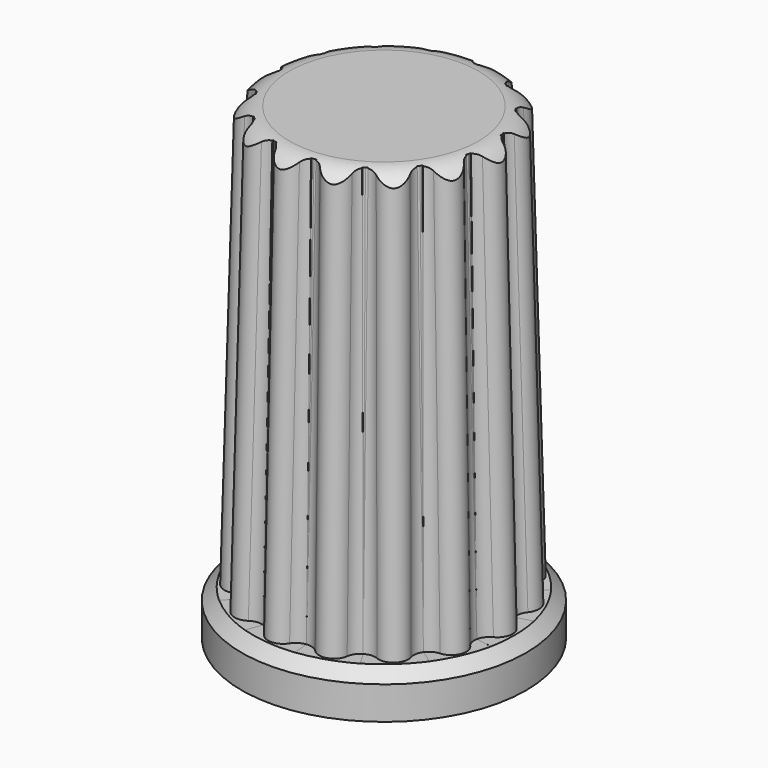
from build123d import *

# Parameters (mm, degrees)
SKETCH005_W    = 6.4
SKETCH005_H    = 9
PAD_DEPTH      = 0.45
PAD_DEPTH_BACK = 0.45
PAD002_DEPTH   = 0.5
PAD001_DEPTH   = 20
ARRAY001_COUNT = 15


with BuildPart() as pad_slot:
    # Sketch005 → Pad (new body, two sides)
    with BuildSketch(Plane.XZ) as pad_sk:
        with Locations((0, 10.5)):
            Rectangle(SKETCH005_W, SKETCH005_H)
    extrude(amount=PAD_DEPTH)
    extrude(pad_sk.sketch, amount=-PAD_DEPTH_BACK)


with BuildPart() as pad_bridge_assist:
    # Sketch006 → Pad002 (new body)
    with BuildSketch(Plane(origin=(0, 0, 14), x_dir=(0, 1, 0), z_dir=(0, 0, 1))):
        with BuildLine():
            Line((-2.95924, 1.05), (2.95924, 1.05))
            ThreePointArc((2.95924, -1.05), (3.14, 0), (2.95924, 1.05))
            Line((-2.95924, -1.05), (2.95924, -1.05))
            ThreePointArc((-2.95924, 1.05), (-3.14, 0), (-2.95924, -1.05))
        make_face()
    extrude(amount=PAD002_DEPTH)


with BuildPart() as array_grip:
    # Sketch003 → Pad001 (new body)
    with BuildSketch(Plane(origin=(0, 0, 1.5), x_dir=(0.999657, 0, 0.026177), z_dir=(-0.026177, 0, 0.999657))):
        with BuildLine():
            ThreePointArc((4.338618, -0.449692), (4.64986, 0.036137), (4.331104, 0.517069))
            ThreePointArc((4.024751, 0.888233), (4.133219, 0.665749), (4.331104, 0.517069))
            Line((4.024751, 0.888233), (5.474488, 1.20818))
            Line((5.474488, 1.20818), (5.492604, -1.122948))
            Line((5.492604, -1.122948), (4.03807, -0.825572))
            ThreePointArc((4.338618, -0.449692), (4.143067, -0.601429), (4.03807, -0.825572))
        make_face()
    extrude(amount=PAD001_DEPTH)

    # Array001: Array (grip) ×15 about axis
    array001_axis = Axis((0, 0, 0), (0, 0, 1))


with BuildPart() as array_grip_1:
    add(array_grip.part)
    for i in range(1, ARRAY001_COUNT):
        add(array_grip.part.rotate(array001_axis, i * 360 / ARRAY001_COUNT))


with BuildPart() as fusion:
    # Sketch → Revolution (revolve)
    with BuildSketch(Plane.XZ):
        with BuildLine():
            Line((3.14, 0), (3.14, 14))
            Line((3.14, 14), (0, 14))
            Line((0, 14), (0, 17))
            Line((0, 17), (3.44, 17))
            ThreePointArc((4.44, 16), (4.147107, 16.707107), (3.44, 17))
            Line((4.690006, 1.677168), (4.44, 16))
            Line((5.167174, 1.2), (4.690006, 1.677168))
            Line((5.167174, 0), (5.167174, 1.2))
            Line((3.14, 0), (5.167174, 0))
        make_face()
    revolve(axis=Axis((0, 0, 0), (0, 0, 1)))

    # Cut: cut Array (grip)
    add(array_grip_1.part, mode=Mode.SUBTRACT)

    # Cut001: cut Pad (bridge assist)
    add(pad_bridge_assist.part, mode=Mode.SUBTRACT)

    # Fusion: union Pad (slot)
    add(pad_slot.part)


solid = fusion.part
